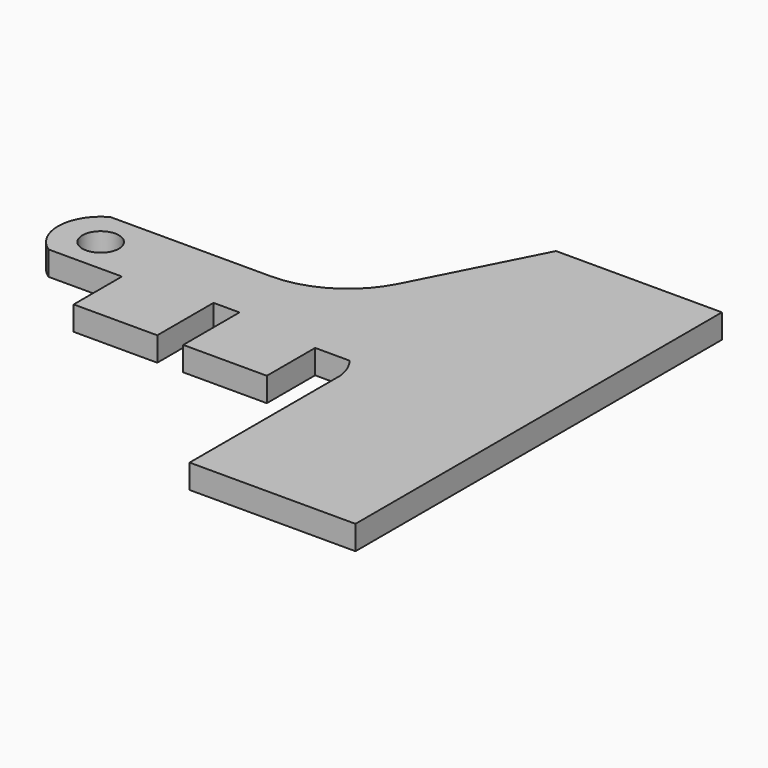
from build123d import *

# Parameters (mm, degrees)
COPYSKETCH004_R = 3.02
PAD_DEPTH       = 2


with BuildPart() as part:
    # CopySketch004 → Pad (new body, symmetric)
    with BuildSketch(Plane.XY):
        with BuildLine():
            Line((-27.534542, 12.08528), (-1.01073, 12.08528))
            ThreePointArc((-1.01073, 12.08528), (7.323138, 14.431249), (13.209413, 20.780161))
            Line((13.209413, 20.780161), (23.383837, 40.65183))
            Line((23.383837, 40.65183), (50.86044, 40.65183))
            Line((50.86044, 40.65183), (50.86044, 0))
            Line((50.86044, -35.221027), (50.86044, 0))
            Line((23.383837, -35.221027), (50.86044, -35.221027))
            Line((23.401691, -4.060687), (23.383837, -35.221027))
            ThreePointArc((23.401691, -4.060687), (22.843077, -1.909417), (21.705474, 0))
            Line((16, 0), (21.705474, 0))
            Line((16, -10), (16, 0))
            Line((2.15, -10), (16, -10))
            Line((2.15, 1.647389), (2.15, -10))
            Line((-2.15, 1.647389), (2.15, 1.647389))
            Line((-2.15, -10), (-2.15, 1.647389))
            Line((-16, -10), (-2.15, -10))
            Line((-16, 0), (-16, -10))
            Line((-16, 0), (-28.183644, 0))
            ThreePointArc((-27.534542, 12.08528), (-31.259646, 6.225284), (-28.183644, 0))
        make_face()
        with Locations((-24.190611, 5.845606)):
            Circle(COPYSKETCH004_R, mode=Mode.SUBTRACT)
    extrude(amount=PAD_DEPTH, both=True)


solid = part.part
